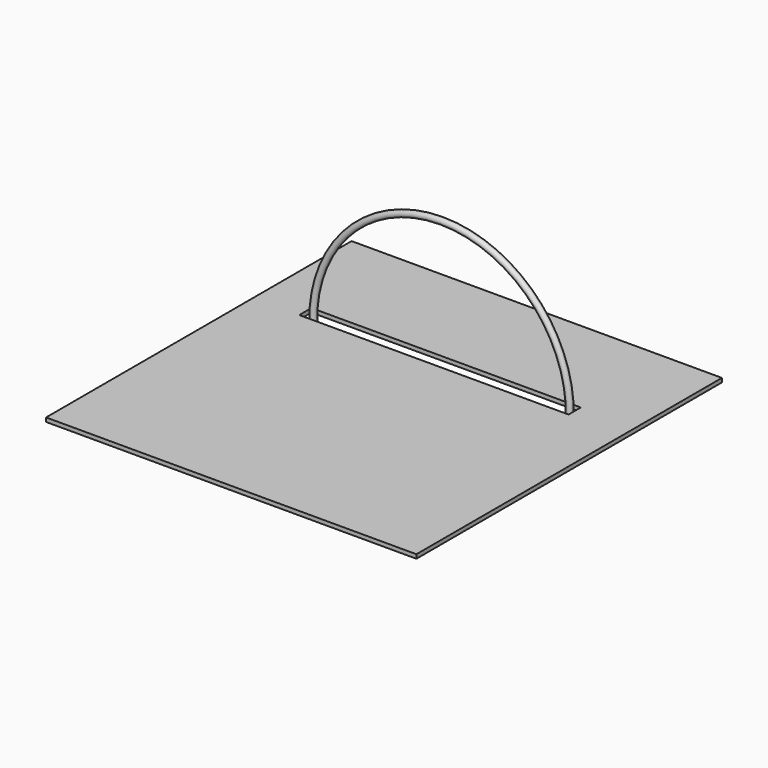
from build123d import *

# Parameters (mm, degrees)
F1_ANGLE_BACK = 200
F1_ANGLE      = 220
F2_W          = 2308.891415596
F2_H          = 2380.8678388596
F2_W_2        = 1678.9654493332
F2_H_2        = 95.1990783215
F3_DEPTH      = 25


with BuildPart() as f1:
    # F0 (on Top) → F1 (revolve)
    with BuildSketch(Plane.XY, mode=Mode.PRIVATE) as f1_sk:
        with BuildLine():
            ThreePointArc((780.7208846222, 0), (800.1533150673, -19.4324304451), (819.5857455124, 0))
            ThreePointArc((819.5857455124, 0), (800.1533150673, 19.4324304451), (780.7208846222, 0))
        make_face()
    revolve(f1_sk.sketch.rotate(Axis((0, -4.0102191269, 0), (0, 1, 0)), -F1_ANGLE_BACK), axis=Axis((0, -4.0102191269, 0), (0, 1, 0)), revolution_arc=F1_ANGLE)


with BuildPart() as f3:
    # F2 (on Top) → F3 (new body)
    with BuildSketch(Plane.XY):
        with Locations((16.2675976753, -468.9540266991)):
            Rectangle(F2_W, F2_H)
        with Locations((-10.4417204857, 1.0464452207)):
            Rectangle(F2_W_2, F2_H_2, mode=Mode.SUBTRACT)
    extrude(amount=F3_DEPTH)


solid = Compound([f1.part, f3.part])
